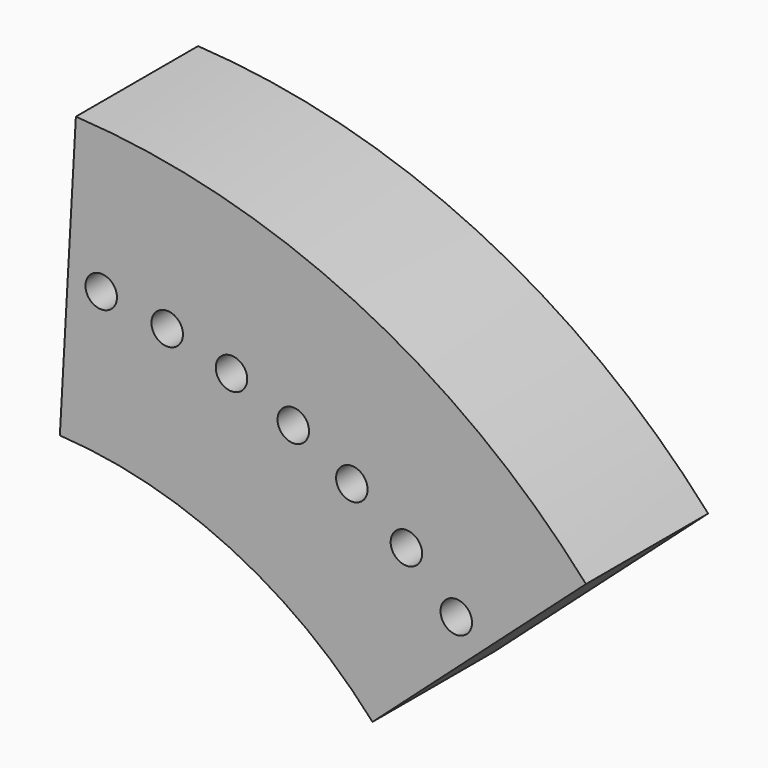
from build123d import *

# Parameters (mm, degrees)
F0_R     = 775
F0_R_2   = 16.5
F0_R_3   = 475
F1_DEPTH = 160
F3_DEPTH = 160


with BuildPart() as f1:
    # F0 (on Front) → F1 (new body)
    with BuildSketch(Plane.XZ):
        Circle(F0_R)
        with Locations((-389.681126, -488.644677)):
            Circle(F0_R_2, mode=Mode.SUBTRACT)
        with Locations((-488.644677, -389.681126)):
            Circle(F0_R_2, mode=Mode.SUBTRACT)
        with Locations((-441.941738, -441.941738)):
            Circle(F0_R_2, mode=Mode.SUBTRACT)
        with Locations((-206.424414, -589.927081)):
            Circle(F0_R_2, mode=Mode.SUBTRACT)
        with Locations((-139.075584, -609.329945)):
            Circle(F0_R_2, mode=Mode.SUBTRACT)
        with Locations((-69.977798, -621.070131)):
            Circle(F0_R_2, mode=Mode.SUBTRACT)
        with Locations((-332.520048, -529.202625)):
            Circle(F0_R_2, mode=Mode.SUBTRACT)
        with Locations((-271.177337, -563.105542)):
            Circle(F0_R_2, mode=Mode.SUBTRACT)
        with Locations((-589.927081, -206.424414)):
            Circle(F0_R_2, mode=Mode.SUBTRACT)
        with Locations((-529.202625, -332.520048)):
            Circle(F0_R_2, mode=Mode.SUBTRACT)
        with Locations((-563.105542, -271.177337)):
            Circle(F0_R_2, mode=Mode.SUBTRACT)
        with Locations((-609.329945, -139.075584)):
            Circle(F0_R_2, mode=Mode.SUBTRACT)
        with Locations((-621.070131, -69.977798)):
            Circle(F0_R_2, mode=Mode.SUBTRACT)
        with Locations((0, -625)):
            Circle(F0_R_2, mode=Mode.SUBTRACT)
        with Locations((69.977798, -621.070131)):
            Circle(F0_R_2, mode=Mode.SUBTRACT)
        with Locations((139.075584, -609.329945)):
            Circle(F0_R_2, mode=Mode.SUBTRACT)
        with Locations((206.424414, -589.927081)):
            Circle(F0_R_2, mode=Mode.SUBTRACT)
        with Locations((271.177337, -563.105542)):
            Circle(F0_R_2, mode=Mode.SUBTRACT)
        with Locations((332.520048, -529.202625)):
            Circle(F0_R_2, mode=Mode.SUBTRACT)
        with Locations((389.681126, -488.644677)):
            Circle(F0_R_2, mode=Mode.SUBTRACT)
        with Locations((441.941738, -441.941738)):
            Circle(F0_R_2, mode=Mode.SUBTRACT)
        with Locations((488.644677, -389.681126)):
            Circle(F0_R_2, mode=Mode.SUBTRACT)
        with Locations((529.202625, -332.520048)):
            Circle(F0_R_2, mode=Mode.SUBTRACT)
        with Locations((563.105542, -271.177337)):
            Circle(F0_R_2, mode=Mode.SUBTRACT)
        with Locations((589.927081, -206.424414)):
            Circle(F0_R_2, mode=Mode.SUBTRACT)
        with Locations((609.329945, -139.075584)):
            Circle(F0_R_2, mode=Mode.SUBTRACT)
        with Locations((621.070131, -69.977798)):
            Circle(F0_R_2, mode=Mode.SUBTRACT)
        with Locations((-625, 0)):
            Circle(F0_R_2, mode=Mode.SUBTRACT)
        with Locations((-621.070131, 69.977798)):
            Circle(F0_R_2, mode=Mode.SUBTRACT)
        with Locations((-609.329945, 139.075584)):
            Circle(F0_R_2, mode=Mode.SUBTRACT)
        with Locations((-589.927081, 206.424414)):
            Circle(F0_R_2, mode=Mode.SUBTRACT)
        with Locations((-563.105542, 271.177337)):
            Circle(F0_R_2, mode=Mode.SUBTRACT)
        with Locations((-529.202625, 332.520048)):
            Circle(F0_R_2, mode=Mode.SUBTRACT)
        with Locations((-488.644677, 389.681126)):
            Circle(F0_R_2, mode=Mode.SUBTRACT)
        with Locations((-441.941738, 441.941738)):
            Circle(F0_R_2, mode=Mode.SUBTRACT)
        with Locations((-389.681126, 488.644677)):
            Circle(F0_R_2, mode=Mode.SUBTRACT)
        with Locations((-332.520048, 529.202625)):
            Circle(F0_R_2, mode=Mode.SUBTRACT)
        with Locations((-271.177337, 563.105542)):
            Circle(F0_R_2, mode=Mode.SUBTRACT)
        with Locations((-206.424414, 589.927081)):
            Circle(F0_R_2, mode=Mode.SUBTRACT)
        with Locations((-139.075584, 609.329945)):
            Circle(F0_R_2, mode=Mode.SUBTRACT)
        with Locations((-69.977798, 621.070131)):
            Circle(F0_R_2, mode=Mode.SUBTRACT)
        Circle(F0_R_3, mode=Mode.SUBTRACT)
        with Locations((625, 0)):
            Circle(F0_R_2, mode=Mode.SUBTRACT)
        with Locations((621.070131, 69.977798)):
            Circle(F0_R_2, mode=Mode.SUBTRACT)
        with Locations((609.329945, 139.075584)):
            Circle(F0_R_2, mode=Mode.SUBTRACT)
        with Locations((563.105542, 271.177337)):
            Circle(F0_R_2, mode=Mode.SUBTRACT)
        with Locations((529.202625, 332.520048)):
            Circle(F0_R_2, mode=Mode.SUBTRACT)
        with Locations((589.927081, 206.424414)):
            Circle(F0_R_2, mode=Mode.SUBTRACT)
        with Locations((271.177337, 563.105542)):
            Circle(F0_R_2, mode=Mode.SUBTRACT)
        with Locations((332.520048, 529.202625)):
            Circle(F0_R_2, mode=Mode.SUBTRACT)
        with Locations((0, 625)):
            Circle(F0_R_2, mode=Mode.SUBTRACT)
        with Locations((69.977798, 621.070131)):
            Circle(F0_R_2, mode=Mode.SUBTRACT)
        with Locations((139.075584, 609.329945)):
            Circle(F0_R_2, mode=Mode.SUBTRACT)
        with Locations((206.424414, 589.927081)):
            Circle(F0_R_2, mode=Mode.SUBTRACT)
        with Locations((441.941738, 441.941738)):
            Circle(F0_R_2, mode=Mode.SUBTRACT)
        with Locations((488.644677, 389.681126)):
            Circle(F0_R_2, mode=Mode.SUBTRACT)
        with Locations((389.681126, 488.644677)):
            Circle(F0_R_2, mode=Mode.SUBTRACT)
    extrude(amount=F1_DEPTH)


with BuildPart() as f3:
    # F2 (on Front) → F3 (new body)
    with BuildSketch(Plane.XZ):
        Polygon((78.170491, 1393.816872), (0, 0), (1136.468839, 1015.763554), align=None)
    extrude(amount=F3_DEPTH)


with BuildPart() as f1_1:
    add(f1.part)

    # F4: intersect F3
    add(f3.part, mode=Mode.INTERSECT)


solid = f1_1.part
